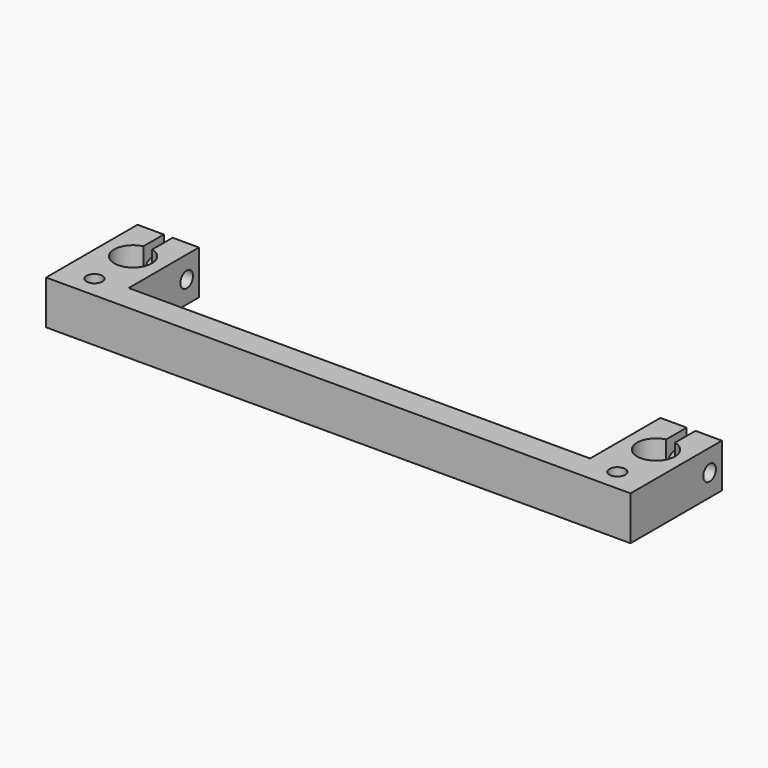
from build123d import *

# Parameters (mm, degrees)
SKETCH_R     = 1.8
PAD_DEPTH    = 10
SKETCH001_R  = 1.8
POCKET_DEPTH = 133.001


with BuildPart() as part:
    # Sketch → Pad (new body)
    with BuildSketch(Plane.XY):
        with BuildLine():
            ThreePointArc((-60.5, 20.182105), (-59.5, 11.7), (-58.5, 20.182105))
            Line((-58.5, 26), (-58.5, 20.182105))
            Line((-58.5, 26), (-52.5, 26))
            Line((-52.5, 26), (-52.5, 6))
            Line((-52.5, 6), (52.5, 6))
            Line((52.5, 6), (52.5, 26))
            Line((52.5, 26), (58.484608, 26))
            Line((58.484608, 20.178394), (58.484608, 26))
            ThreePointArc((58.484608, 20.178394), (59.515826, 11.700029), (60.484608, 20.185755))
            Line((60.484608, 26), (60.484608, 20.185755))
            Line((60.484608, 26), (66.5, 26))
            Line((66.5, 26), (66.5, 0))
            Line((66.5, 0), (-66.5, 0))
            Line((-66.5, 0), (-66.5, 26))
            Line((-66.5, 26), (-60.5, 26))
            Line((-60.5, 20.182105), (-60.5, 26))
        make_face()
        with Locations((-59.5, 5)):
            Circle(SKETCH_R, mode=Mode.SUBTRACT)
        with Locations((59.5, 5)):
            Circle(SKETCH_R, mode=Mode.SUBTRACT)
    extrude(amount=PAD_DEPTH)

    # Sketch001 → Pocket (cut, through all)
    with BuildSketch(Plane(origin=(-66.5, 0, 0), x_dir=(0, -1, 0), z_dir=(-1, 0, 0))):
        with Locations((-22.5, 5)):
            Circle(SKETCH001_R)
    extrude(amount=-POCKET_DEPTH, mode=Mode.SUBTRACT)


solid = part.part
